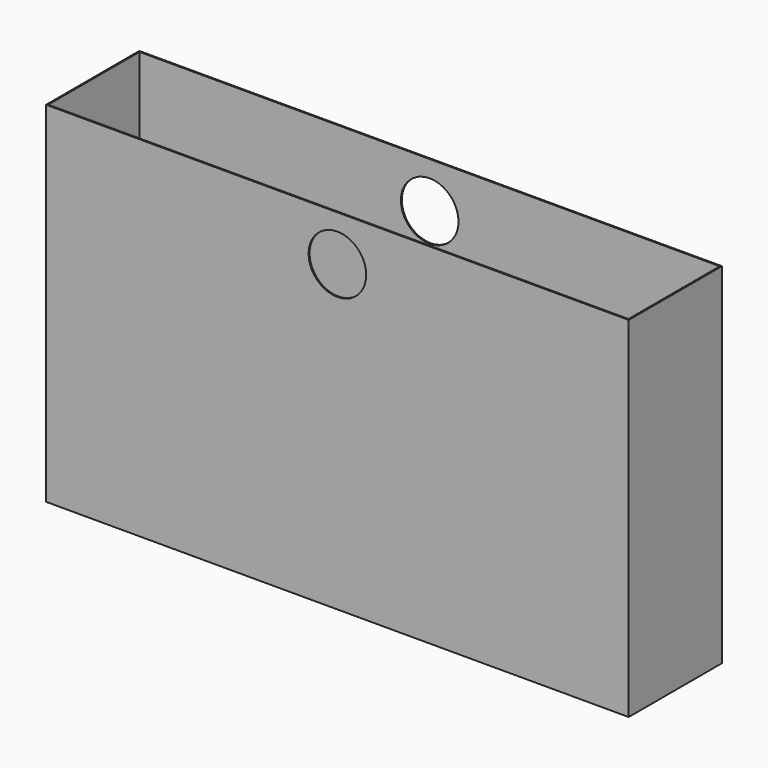
from build123d import *

# Parameters (mm, degrees)
F0_W     = 127
F0_H     = 76.2
F1_DEPTH = 25.4
F2_T     = -0.254
F3_R     = 6.272881
F4_DEPTH = 50.8


with BuildPart() as f1:
    # F0 (on Front) → F1 (new body)
    with BuildSketch(Plane.XZ):
        Rectangle(F0_W, F0_H)
    extrude(amount=F1_DEPTH)

    # F2
    f2_openings = [f1.faces().sort_by_distance(p)[0] for p in [
        (0, -12.7, 38.1),
    ]]
    offset(amount=F2_T, openings=f2_openings)

    # F3 (on face) → F4 (cut)
    with BuildSketch(Plane.XZ.offset(25.4)):
        with Locations((0, 28.13966)):
            Circle(F3_R)
    extrude(amount=-F4_DEPTH, mode=Mode.SUBTRACT)


solid = f1.part
